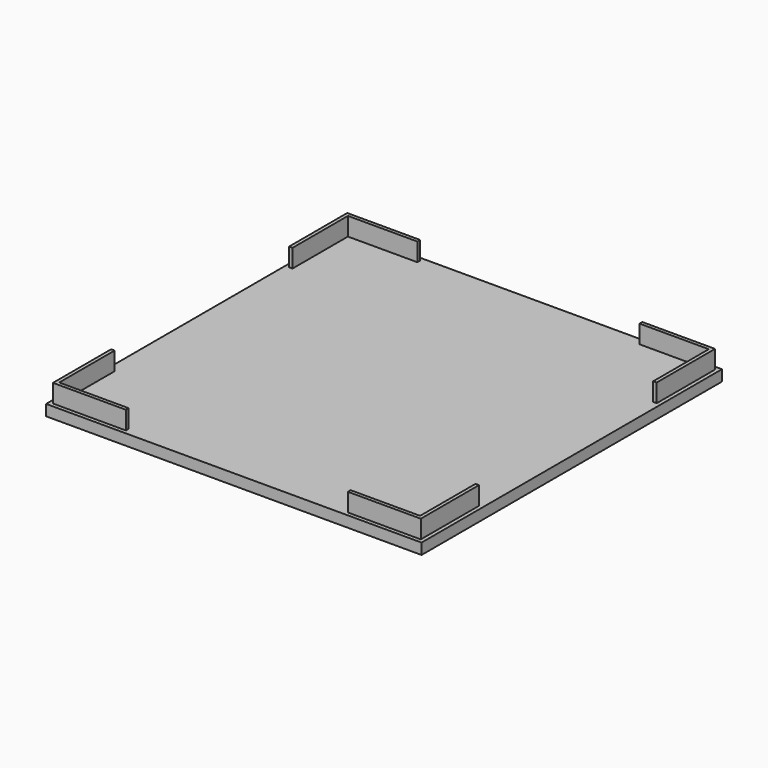
from build123d import *

# Parameters (mm, degrees)
F0_W     = 103
F0_H     = 103
F1_DEPTH = 3
F2_W     = 0.95
F2_H     = 19
F2_W_2   = 19
F2_H_2   = 0.95
F3_DEPTH = 5


with BuildPart() as f1:
    # F0 (on Top) → F1 (new body)
    with BuildSketch(Plane.XY):
        with Locations((51.5, 51.5)):
            Rectangle(F0_W, F0_H)
    extrude(amount=F1_DEPTH)

    # F2 (on face) → F3 (join)
    with BuildSketch(Plane.XY.offset(3)):
        with Locations((1.525, 11.5)):
            Rectangle(F2_W, F2_H)
        Polygon((2, 2), (1.05, 2), (1.05, 1.05), (21.05, 1.05), (21.05, 2), align=None)
        Polygon((101, 2), (81.95, 2), (81.95, 1.05), (101.95, 1.05), (101.95, 2), align=None)
        with Locations((101.475, 11.5)):
            Rectangle(F2_W, F2_H)
        Polygon((101.95, 81.95), (101.95, 101.95), (101, 101.95), (101, 101), (101, 81.95), align=None)
        with Locations((91.5, 101.475)):
            Rectangle(F2_W_2, F2_H_2)
        Polygon((21.05, 101.95), (1.05, 101.95), (1.05, 101), (2, 101), (21.05, 101), align=None)
        with Locations((1.525, 91.5)):
            Rectangle(F2_W, F2_H)
    extrude(amount=F3_DEPTH)


solid = f1.part
